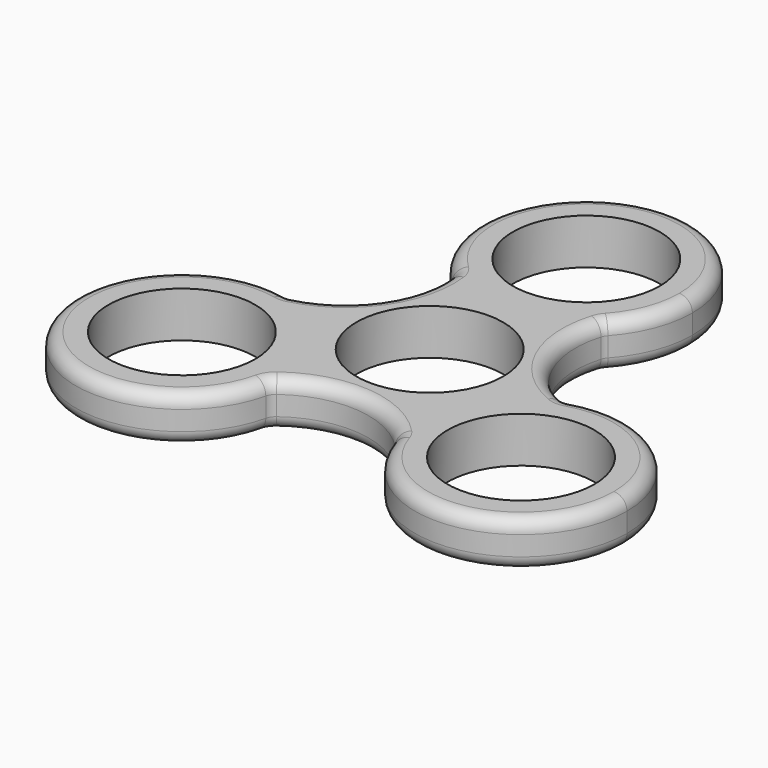
from build123d import *

# Parameters (mm, degrees)
F0_R     = 11.25
F1_DEPTH = 7
F2_R     = 2


with BuildPart() as f1:
    # F0 (on Top) → F1 (new body)
    with BuildSketch(Plane.XY):
        with BuildLine():
            ThreePointArc((-1.0977629517, 32.2580427276), (2.2356106171, 37.4364603382), (3.4026071802, 43.4834023193))
            ThreePointArc((3.4026071802, 43.4834023193), (-19.6153332685, 58.2569422499), (-23.4598521532, 31.1773791233))
            ThreePointArc((-23.4598521532, 31.1773791233), (-12.0630155747, 27.2523440562), (-1.0977629517, 32.2580427276))
        make_face()
        with Locations((-12.8473928198, 43.4834023193)):
            Circle(F0_R, mode=Mode.SUBTRACT)
        with BuildLine():
            ThreePointArc((-1.0977629517, 32.2580427276), (-12.0630155747, 27.2523440562), (-23.4598521532, 31.1773791233))
            ThreePointArc((-23.4598521532, 31.1773791233), (-25.7936417608, 20.3888657155), (-34.9815232944, 14.2715600659))
            ThreePointArc((-34.9815232944, 14.2715600659), (-26.0498478441, 8.5221954705), (-22.5781549334, -1.5165976807))
            ThreePointArc((-22.5781549334, -1.5165976807), (-22.6499238252, -3.0421592863), (-22.8645965595, -4.5542454621))
            ThreePointArc((-22.8645965595, -4.5542454621), (-12.3545750753, -1.1811098455), (-2.4628922134, -6.0793958358))
            ThreePointArc((-2.4628922134, -6.0793958358), (-1.3153281149, 5.9196408303), (7.7822702532, 13.8270732965))
            ThreePointArc((7.7822702532, 13.8270732965), (-0.3939616233, 21.2424510878), (-1.0977629517, 32.2580427276))
        make_face()
        with Locations((-12.8473928198, 13.4834023193)):
            Circle(F0_R, mode=Mode.SUBTRACT)
        with BuildLine():
            ThreePointArc((-22.5781549334, -1.5165976807), (-26.0498478441, 8.5221954705), (-34.9815232944, 14.2715600659))
            ThreePointArc((-34.9815232944, 14.2715600659), (-52.4924750969, -10.3114174327), (-22.8645965595, -4.5542454621))
            ThreePointArc((-22.8645965595, -4.5542454621), (-22.6499238252, -3.0421592863), (-22.5781549334, -1.5165976807))
        make_face()
        with Locations((-38.8281549334, -1.5165976807)):
            Circle(F0_R, mode=Mode.SUBTRACT)
        with BuildLine():
            ThreePointArc((29.3833692937, -1.5165976807), (22.5436599532, 11.7313806444), (7.7822702532, 13.8270732965))
            ThreePointArc((7.7822702532, 13.8270732965), (-1.3153281149, 5.9196408303), (-2.4628922134, -6.0793958358))
            ThreePointArc((-2.4628922134, -6.0793958358), (15.4380656414, -17.602332813), (29.3833692937, -1.5165976807))
        make_face()
        with Locations((13.1333692937, -1.5165976807)):
            Circle(F0_R, mode=Mode.SUBTRACT)
    extrude(amount=F1_DEPTH)

    # F2
    f2_edges = [f1.edges().sort_by_distance(p)[0] for p in [
        (7.78227, 13.827073, 3.5),
        (-1.097763, 32.258043, 3.5),
        (-0.393962, 21.242451, 0),
        (-0.393962, 21.242451, 7),
        (-23.459852, 31.177379, 3.5),
        (-13.63177, 59.714461, 0),
        (-13.63177, 59.714461, 7),
        (-34.981523, 14.27156, 3.5),
        (-25.793642, 20.388866, 0),
        (-25.793642, 20.388866, 7),
        (-22.864597, -4.554245, 3.5),
        (-52.492475, -10.311417, 0),
        (-52.492475, -10.311417, 7),
        (-2.462892, -6.079396, 3.5),
        (-12.354575, -1.18111, 0),
        (-12.354575, -1.18111, 7),
        (27.582067, -8.952836, 0),
        (27.582067, -8.952836, 7),
    ]]
    fillet(f2_edges, radius=F2_R)


solid = f1.part
